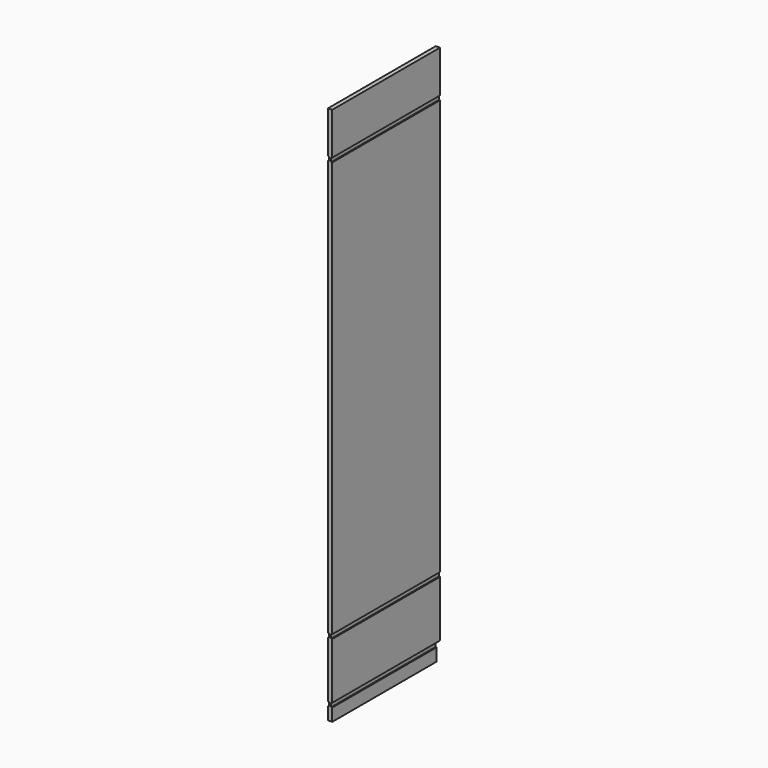
from build123d import *

# Parameters (mm, degrees)
F0_W     = 19.05
F0_H     = 2438.4
F1_DEPTH = 609.6
F2_W     = 19.05
F2_H     = 76.2
F3_DEPTH = 19.051
F4_W     = 4.7625
F4_H     = 19.05
F5_DEPTH = 609.601


with BuildPart() as f1:
    # F0 (on Front) → F1 (new body)
    with BuildSketch(Plane.XZ):
        with Locations((9.525, 1219.2)):
            Rectangle(F0_W, F0_H)
    extrude(amount=F1_DEPTH)

    # F2 (on face) → F3 (cut, through all)
    with BuildSketch(Plane(origin=(0, 0, 0), x_dir=(0, -1, 0), z_dir=(-1, 0, 0))):
        with Locations((9.525, 38.1)):
            Rectangle(F2_W, F2_H)
    extrude(amount=-F3_DEPTH, mode=Mode.SUBTRACT)

    # F4 (on face) → F5 (cut, through all)
    with BuildSketch(Plane.XZ.offset(609.6)):
        with Locations((2.38125, 66.675)):
            Rectangle(F4_W, F4_H)
        with Locations((16.66875, 66.675)):
            Rectangle(F4_W, F4_H)
        with Locations((2.38125, 2238.375)):
            Rectangle(F4_W, F4_H)
        with Locations((16.66875, 2238.375)):
            Rectangle(F4_W, F4_H)
        with Locations((16.66875, 339.725)):
            Rectangle(F4_W, F4_H)
        with Locations((2.38125, 339.725)):
            Rectangle(F4_W, F4_H)
    extrude(amount=-F5_DEPTH, mode=Mode.SUBTRACT)


solid = f1.part
